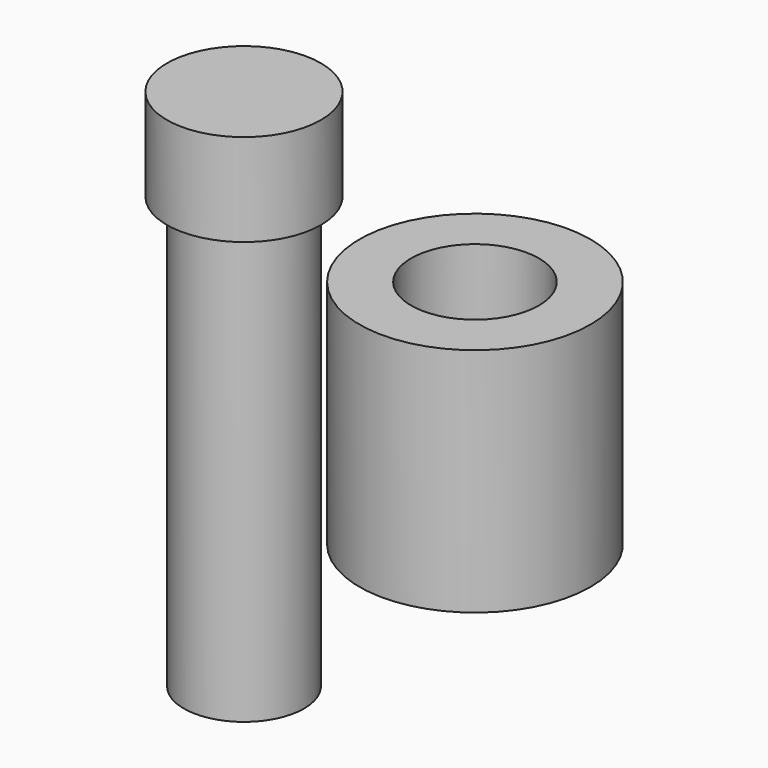
from build123d import *

# Parameters (mm, degrees)
TUBE_R         = 7.5
TUBE_R_2       = 4.15
TUBE_DEPTH     = 15
TUBE001_R      = 5
TUBE001_R_2    = 3.9
TUBE001_DEPTH  = 6
CYLINDER_R     = 3.9
CYLINDER_DEPTH = 34


with BuildPart() as tube:
    # Tube → Tube (new body)
    with BuildSketch(Plane(origin=(15, 0, 8), x_dir=(1, 0, 0), z_dir=(0, 0, 1))):
        Circle(TUBE_R)
        Circle(TUBE_R_2, mode=Mode.SUBTRACT)
    extrude(amount=TUBE_DEPTH)


with BuildPart() as tube001:
    # Tube001 → Tube001 (new body)
    with BuildSketch(Plane.XY.offset(23)):
        Circle(TUBE001_R)
        Circle(TUBE001_R_2, mode=Mode.SUBTRACT)
    extrude(amount=TUBE001_DEPTH)


with BuildPart() as fusion:
    # Cylinder → Cylinder (new body)
    with BuildSketch(Plane.XY.offset(-5)):
        Circle(CYLINDER_R)
    extrude(amount=CYLINDER_DEPTH)

    # Fusion: union Tube001
    add(tube001.part)


solid = Compound([tube.part, fusion.part])
